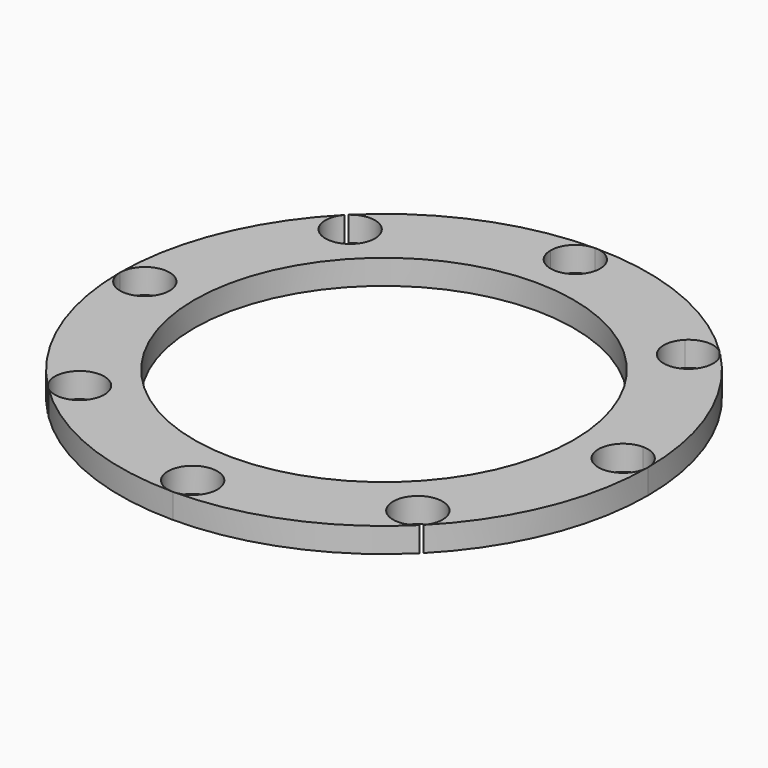
from build123d import *

# Parameters (mm, degrees)
CYLINDER206_R               = 3
CYLINDER206_DEPTH           = 3
CYLINDER206_PLACEMENT_ANGLE = 45
CYLINDER203_R               = 3
CYLINDER203_DEPTH           = 3
CYLINDER205_R               = 3
CYLINDER205_DEPTH           = 3
CYLINDER205_PLACEMENT_ANGLE = 135
CYLINDER207_R               = 3
CYLINDER207_DEPTH           = 3
CYLINDER208_R               = 3
CYLINDER208_DEPTH           = 3
CYLINDER208_PLACEMENT_ANGLE = 225
CYLINDER209_R               = 3
CYLINDER209_DEPTH           = 3
CYLINDER210_R               = 3
CYLINDER210_DEPTH           = 3
CYLINDER210_PLACEMENT_ANGLE = 45
CYLINDER204_R               = 3
CYLINDER204_DEPTH           = 3
TUBE013_R                   = 32
TUBE013_R_2                 = 23
TUBE013_DEPTH               = 3


with BuildPart() as obj1:
    # Cylinder206 → Cylinder206 (new body)
    with BuildSketch(Plane.XY):
        Circle(CYLINDER206_R)
    extrude(amount=CYLINDER206_DEPTH)


with BuildPart() as obj1_1:
    # Cylinder206 placement: moved
    add(obj1.part.moved(Location((20.51, -20.51, 20))).rotate(Axis((20.51, -20.51, 20), (0, 0, 1)), CYLINDER206_PLACEMENT_ANGLE))


with BuildPart() as obj2:
    # Cylinder203 → Cylinder203 (new body)
    with BuildSketch(Plane(origin=(29, 0, 20), x_dir=(0, 1, 0), z_dir=(0, 0, 1))):
        Circle(CYLINDER203_R)
    extrude(amount=CYLINDER203_DEPTH)


with BuildPart() as obj3:
    # Cylinder205 → Cylinder205 (new body)
    with BuildSketch(Plane.XY):
        Circle(CYLINDER205_R)
    extrude(amount=CYLINDER205_DEPTH)


with BuildPart() as obj3_1:
    # Cylinder205 placement: moved
    add(obj3.part.moved(Location((20.51, 20.51, 20))).rotate(Axis((20.51, 20.51, 20), (0, 0, 1)), CYLINDER205_PLACEMENT_ANGLE))


with BuildPart() as obj4:
    # Cylinder207 → Cylinder207 (new body)
    with BuildSketch(Plane(origin=(0, 29, 20), x_dir=(-1, 0, 0), z_dir=(0, 0, 1))):
        Circle(CYLINDER207_R)
    extrude(amount=CYLINDER207_DEPTH)


with BuildPart() as obj5:
    # Cylinder208 → Cylinder208 (new body)
    with BuildSketch(Plane.XY):
        Circle(CYLINDER208_R)
    extrude(amount=CYLINDER208_DEPTH)


with BuildPart() as obj5_1:
    # Cylinder208 placement: moved
    add(obj5.part.moved(Location((-20.51, 20.51, 20))).rotate(Axis((-20.51, 20.51, 20), (0, 0, 1)), CYLINDER208_PLACEMENT_ANGLE))


with BuildPart() as obj6:
    # Cylinder209 → Cylinder209 (new body)
    with BuildSketch(Plane(origin=(-29, 0, 20), x_dir=(0, -1, 0), z_dir=(0, 0, 1))):
        Circle(CYLINDER209_R)
    extrude(amount=CYLINDER209_DEPTH)


with BuildPart() as obj7:
    # Cylinder210 → Cylinder210 (new body)
    with BuildSketch(Plane.XY):
        Circle(CYLINDER210_R)
    extrude(amount=CYLINDER210_DEPTH)


with BuildPart() as obj7_1:
    # Cylinder210 placement: moved
    add(obj7.part.moved(Location((-20.51, -20.51, 20))).rotate(Axis((-20.51, -20.51, 20), (0, 0, -1)), CYLINDER210_PLACEMENT_ANGLE))


with BuildPart() as compound546:
    # Cylinder204 → Cylinder204 (new body)
    with BuildSketch(Plane(origin=(0, -29, 20), x_dir=(1, 0, 0), z_dir=(0, 0, 1))):
        Circle(CYLINDER204_R)
    extrude(amount=CYLINDER204_DEPTH)

    # Compound546: union obj1, obj2, obj3, obj4, obj5, obj6, obj7
    add(obj1_1.part)
    add(obj2.part)
    add(obj3_1.part)
    add(obj4.part)
    add(obj5_1.part)
    add(obj6.part)
    add(obj7_1.part)


with BuildPart() as cut320:
    # Tube013 → Tube013 (new body)
    with BuildSketch(Plane.XY.offset(20)):
        Circle(TUBE013_R)
        Circle(TUBE013_R_2, mode=Mode.SUBTRACT)
    extrude(amount=TUBE013_DEPTH)

    # Cut320: cut Compound546
    add(compound546.part, mode=Mode.SUBTRACT)


solid = cut320.part
